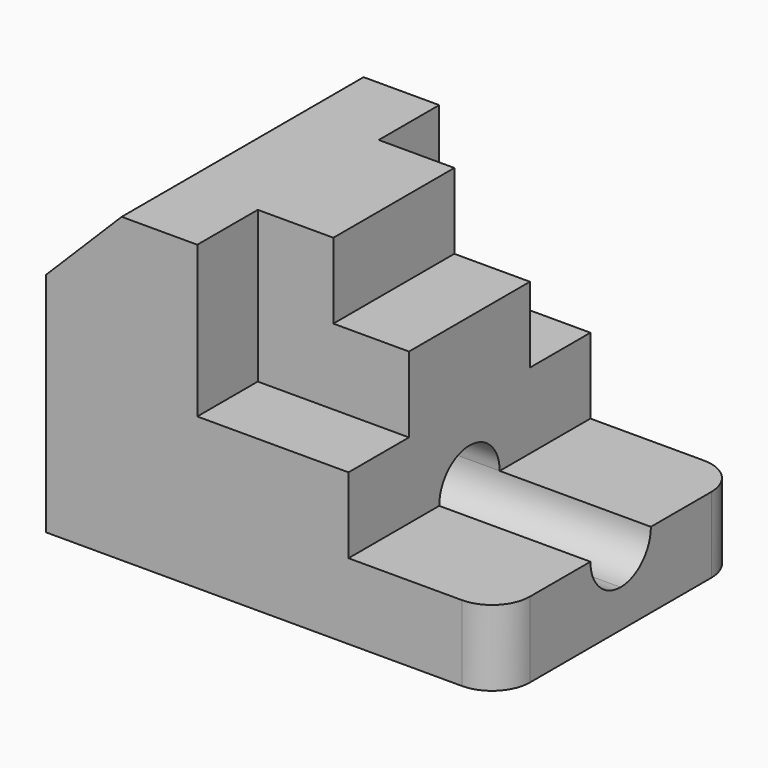
from build123d import *

# Parameters (mm, degrees)
F0_W      = 76.2
F0_H      = 50.8
F1_DEPTH  = 50.8
F3_DEPTH  = 50.801
F5_DEPTH  = 12.7
F6_W      = 25.4
F6_H      = 25.4
F7_DEPTH  = 12.7
F9_DEPTH  = 12.701
F11_DEPTH = 76.201


with BuildPart() as f1:
    # F0 (on Front) → F1 (new body)
    with BuildSketch(Plane.XZ):
        with Locations((38.1, 25.4)):
            Rectangle(F0_W, F0_H)
    extrude(amount=F1_DEPTH)

    # F2 (on face) → F3 (cut, through all)
    with BuildSketch(Plane.XZ.offset(50.8)):
        Polygon((12.7, 50.8), (0, 50.8), (0, 38.1), align=None)
        Polygon((76.2, 12.7), (76.2, 50.8), (38.1, 50.8), (38.1, 38.1), (50.8, 38.1), (50.8, 12.7), align=None)
    extrude(amount=-F3_DEPTH, mode=Mode.SUBTRACT)

    # F4 (on face) → F5 (cut)
    with BuildSketch(Plane.XZ.offset(50.8)):
        Polygon((25.4, 50.8), (25.4, 25.4), (50.8, 25.4), (50.8, 38.1), (38.1, 38.1), (38.1, 50.8), align=None)
    extrude(amount=-F5_DEPTH, mode=Mode.SUBTRACT)

    # F6 (on face) → F7 (cut)
    with BuildSketch(Plane(origin=(0, 0, 0), x_dir=(-1, 0, 0), z_dir=(0, 1, 0))):
        with Locations((-38.1, 38.1)):
            Rectangle(F6_W, F6_H)
    extrude(amount=-F7_DEPTH, mode=Mode.SUBTRACT)

    # F8 (on face) → F9 (cut, through all)
    with BuildSketch(Plane.XY.offset(12.7)):
        with BuildLine():
            ThreePointArc((76.2, -44.45), (74.340128, -48.940128), (69.85, -50.8))
            Line((69.85, -50.8), (76.2, -50.8))
            Line((76.2, -50.8), (76.2, -44.45))
        make_face()
        with BuildLine():
            Line((76.2, 0), (69.85, 0))
            ThreePointArc((69.85, 0), (74.340128, -1.859872), (76.2, -6.35))
            Line((76.2, -6.35), (76.2, 0))
        make_face()
    extrude(amount=-F9_DEPTH, mode=Mode.SUBTRACT)

    # F10 (on face) → F11 (cut, through all)
    with BuildSketch(Plane.YZ.offset(76.2)):
        with BuildLine():
            ThreePointArc((-25.4, 6.35), (-20.909872, 8.209872), (-19.05, 12.7))
            ThreePointArc((-19.05, 12.7), (-20.909872, 17.190128), (-25.4, 19.05))
            ThreePointArc((-25.4, 19.05), (-29.890128, 17.190128), (-31.75, 12.7))
            ThreePointArc((-31.75, 12.7), (-29.890128, 8.209872), (-25.4, 6.35))
        make_face()
        with BuildLine():
            ThreePointArc((-25.4, 6.35), (-20.909872, 8.209872), (-19.05, 12.7))
            ThreePointArc((-19.05, 12.7), (-20.909872, 17.190128), (-25.4, 19.05))
            ThreePointArc((-25.4, 19.05), (-29.890128, 17.190128), (-31.75, 12.7))
            ThreePointArc((-31.75, 12.7), (-29.890128, 8.209872), (-25.4, 6.35))
        make_face()
    extrude(amount=-F11_DEPTH, mode=Mode.SUBTRACT)


solid = f1.part
